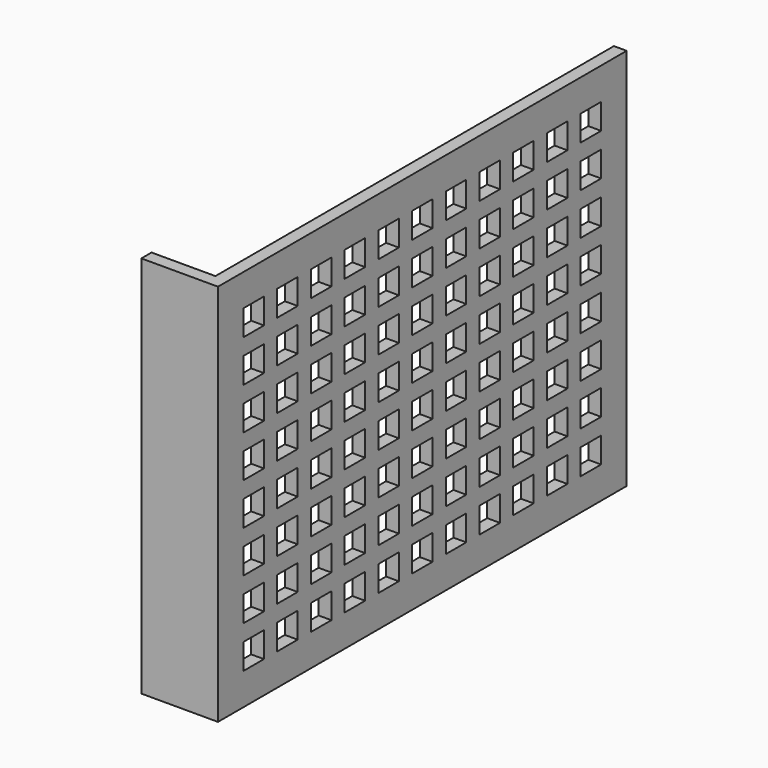
from build123d import *

# Parameters (mm, degrees)
PAD_DEPTH                    = 60
SKETCH001_W                  = 4
SKETCH001_H                  = 4
POCKET_DEPTH                 = 2
SKETCH001_LINEARPATTERN_2_W  = 4
SKETCH001_LINEARPATTERN_2_H  = 4
POCKET_LINEARPATTERN_2_DEPTH = 2
SKETCH001_LINEARPATTERN_3_W  = 4
SKETCH001_LINEARPATTERN_3_H  = 4
POCKET_LINEARPATTERN_3_DEPTH = 2
SKETCH001_LINEARPATTERN_4_W  = 4
SKETCH001_LINEARPATTERN_4_H  = 4
POCKET_LINEARPATTERN_4_DEPTH = 2
SKETCH001_LINEARPATTERN_5_W  = 4
SKETCH001_LINEARPATTERN_5_H  = 4
POCKET_LINEARPATTERN_5_DEPTH = 2
SKETCH001_LINEARPATTERN_6_W  = 4
SKETCH001_LINEARPATTERN_6_H  = 4
POCKET_LINEARPATTERN_6_DEPTH = 2
SKETCH001_LINEARPATTERN_7_W  = 4
SKETCH001_LINEARPATTERN_7_H  = 4
POCKET_LINEARPATTERN_7_DEPTH = 2
SKETCH001_LINEARPATTERN_8_W  = 4
SKETCH001_LINEARPATTERN_8_H  = 4
POCKET_LINEARPATTERN_8_DEPTH = 2
LINEARPATTERN001_COUNT       = 11
LINEARPATTERN001_PITCH       = 6.6


with BuildPart() as part:
    # Sketch → Pad (new body)
    with BuildSketch(Plane.XY):
        Polygon((-12, 0), (0, 0), (0, 80), (-2, 80), (-2, 2), (-12, 2), align=None)
    extrude(amount=PAD_DEPTH)

    # Sketch001 → Pocket (cut)
    with BuildSketch(Plane.YZ):
        with Locations((7, 7)):
            Rectangle(SKETCH001_W, SKETCH001_H)
    pocket = extrude(amount=-POCKET_DEPTH, mode=Mode.SUBTRACT)

    # Sketch001 LinearPattern 2 → Pocket LinearPattern 2 (cut)
    with BuildSketch(Plane(origin=(0, 0, 6.571429), x_dir=(0, 1, 0), z_dir=(1, 0, 0))):
        with Locations((7, 7)):
            Rectangle(SKETCH001_LINEARPATTERN_2_W, SKETCH001_LINEARPATTERN_2_H)
    pocket_linearpattern_2 = extrude(amount=-POCKET_LINEARPATTERN_2_DEPTH, mode=Mode.SUBTRACT)

    # Sketch001 LinearPattern 3 → Pocket LinearPattern 3 (cut)
    with BuildSketch(Plane(origin=(0, 0, 13.142857), x_dir=(0, 1, 0), z_dir=(1, 0, 0))):
        with Locations((7, 7)):
            Rectangle(SKETCH001_LINEARPATTERN_3_W, SKETCH001_LINEARPATTERN_3_H)
    pocket_linearpattern_3 = extrude(amount=-POCKET_LINEARPATTERN_3_DEPTH, mode=Mode.SUBTRACT)

    # Sketch001 LinearPattern 4 → Pocket LinearPattern 4 (cut)
    with BuildSketch(Plane(origin=(0, 0, 19.714286), x_dir=(0, 1, 0), z_dir=(1, 0, 0))):
        with Locations((7, 7)):
            Rectangle(SKETCH001_LINEARPATTERN_4_W, SKETCH001_LINEARPATTERN_4_H)
    pocket_linearpattern_4 = extrude(amount=-POCKET_LINEARPATTERN_4_DEPTH, mode=Mode.SUBTRACT)

    # Sketch001 LinearPattern 5 → Pocket LinearPattern 5 (cut)
    with BuildSketch(Plane(origin=(0, 0, 26.285714), x_dir=(0, 1, 0), z_dir=(1, 0, 0))):
        with Locations((7, 7)):
            Rectangle(SKETCH001_LINEARPATTERN_5_W, SKETCH001_LINEARPATTERN_5_H)
    pocket_linearpattern_5 = extrude(amount=-POCKET_LINEARPATTERN_5_DEPTH, mode=Mode.SUBTRACT)

    # Sketch001 LinearPattern 6 → Pocket LinearPattern 6 (cut)
    with BuildSketch(Plane(origin=(0, 0, 32.857143), x_dir=(0, 1, 0), z_dir=(1, 0, 0))):
        with Locations((7, 7)):
            Rectangle(SKETCH001_LINEARPATTERN_6_W, SKETCH001_LINEARPATTERN_6_H)
    pocket_linearpattern_6 = extrude(amount=-POCKET_LINEARPATTERN_6_DEPTH, mode=Mode.SUBTRACT)

    # Sketch001 LinearPattern 7 → Pocket LinearPattern 7 (cut)
    with BuildSketch(Plane(origin=(0, 0, 39.428571), x_dir=(0, 1, 0), z_dir=(1, 0, 0))):
        with Locations((7, 7)):
            Rectangle(SKETCH001_LINEARPATTERN_7_W, SKETCH001_LINEARPATTERN_7_H)
    pocket_linearpattern_7 = extrude(amount=-POCKET_LINEARPATTERN_7_DEPTH, mode=Mode.SUBTRACT)

    # Sketch001 LinearPattern 8 → Pocket LinearPattern 8 (cut)
    with BuildSketch(Plane(origin=(0, 0, 46), x_dir=(0, 1, 0), z_dir=(1, 0, 0))):
        with Locations((7, 7)):
            Rectangle(SKETCH001_LINEARPATTERN_8_W, SKETCH001_LINEARPATTERN_8_H)
    pocket_linearpattern_8 = extrude(amount=-POCKET_LINEARPATTERN_8_DEPTH, mode=Mode.SUBTRACT)

    # LinearPattern001: Pocket, Pocket LinearPattern 2, Pocket LinearPattern 3, Pocket LinearPattern 4, Pocket LinearPattern 5, Pocket LinearPattern 6, Pocket LinearPattern 7, Pocket LinearPattern 8 ×11
    with Locations(*[(0, i * LINEARPATTERN001_PITCH, 0) for i in range(1, LINEARPATTERN001_COUNT)]):
        add(pocket, mode=Mode.SUBTRACT)
        add(pocket_linearpattern_2, mode=Mode.SUBTRACT)
        add(pocket_linearpattern_3, mode=Mode.SUBTRACT)
        add(pocket_linearpattern_4, mode=Mode.SUBTRACT)
        add(pocket_linearpattern_5, mode=Mode.SUBTRACT)
        add(pocket_linearpattern_6, mode=Mode.SUBTRACT)
        add(pocket_linearpattern_7, mode=Mode.SUBTRACT)
        add(pocket_linearpattern_8, mode=Mode.SUBTRACT)


solid = part.part
